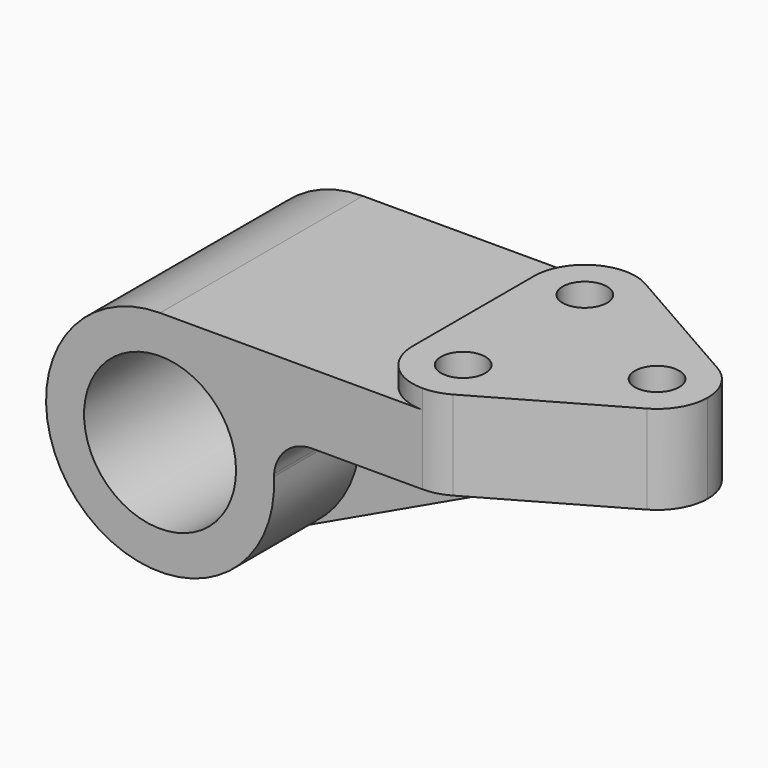
from build123d import *

# Parameters (mm, degrees)
F0_R     = 19.05
F1_DEPTH = 31.75
F2_DEPTH = 4.7625
F3_R     = 5.5626
F4_DEPTH = 4.7752
F5_DEPTH = 61.9262
F6_DEPTH = 61.9262


with BuildPart() as f1:
    # F0 (on Front) → F1 (new body, symmetric)
    with BuildSketch(Plane.XZ):
        with BuildLine():
            Line((70.111208, -4.7752), (-41.769909, -4.7752))
            ThreePointArc((-41.769909, -4.7752), (-69.341332, -40.856681), (-27.284214, -57.981385))
            ThreePointArc((-27.284214, -57.981385), (-16.552296, -46.789048), (-13.246168, -31.639394))
            Line((-13.246168, -31.639394), (-13.188227, -30.985492))
            ThreePointArc((-13.188227, -30.985492), (-10.131493, -24.800057), (-3.700401, -22.3012))
            Line((-3.700401, -22.3012), (47.719827, -22.3012))
            Line((47.719827, -22.3012), (70.111208, -22.3012))
            Line((70.111208, -22.3012), (70.111208, -4.7752))
        make_face()
        with Locations((-41.769909, -33.3502)):
            Circle(F0_R, mode=Mode.SUBTRACT)
    extrude(amount=F1_DEPTH, both=True)

    # F0 (on Front) → F2 (join, symmetric)
    with BuildSketch(Plane.XZ):
        with BuildLine():
            ThreePointArc((-13.246168, -31.639394), (-16.552296, -46.789048), (-27.284214, -57.981385))
            Line((-27.284214, -57.981385), (47.719827, -22.3012))
            Line((47.719827, -22.3012), (-3.700401, -22.3012))
            ThreePointArc((-3.700401, -22.3012), (-10.131493, -24.800057), (-13.188227, -30.985492))
            Line((-13.188227, -30.985492), (-13.246168, -31.639394))
        make_face()
    extrude(amount=F2_DEPTH, both=True)

    # F3 (on Top) → F4 (join)
    with BuildSketch(Plane.XY):
        with BuildLine():
            Line((11.361008, 19.05), (11.361008, -19.05))
            ThreePointArc((11.361008, -19.05), (15.080752, -28.030256), (24.061008, -31.75))
            ThreePointArc((24.061008, -31.75), (27.319684, -31.324813), (30.360163, -30.077721))
            Line((30.360163, -30.077721), (63.710363, -11.027721))
            ThreePointArc((63.710363, -11.027721), (68.395043, -6.375372), (70.111208, 0))
            ThreePointArc((70.111208, 0), (68.395043, 6.375372), (63.710363, 11.027721))
            Line((63.710363, 11.027721), (30.360163, 30.077721))
            ThreePointArc((30.360163, 30.077721), (27.319684, 31.324813), (24.061008, 31.75))
            ThreePointArc((24.061008, 31.75), (15.080752, 28.030256), (11.361008, 19.05))
        make_face()
        with Locations((24.061008, -19.05)):
            Circle(F3_R, mode=Mode.SUBTRACT)
        with Locations((24.061008, 19.05)):
            Circle(F3_R, mode=Mode.SUBTRACT)
        with Locations((57.411208, 0)):
            Circle(F3_R, mode=Mode.SUBTRACT)
    extrude(amount=-F4_DEPTH)

    # F3 (on Top) → F5 (cut, through all)
    with BuildSketch(Plane.XY):
        with Locations((24.061008, 19.05)):
            Circle(F3_R)
        with Locations((57.411208, 0)):
            Circle(F3_R)
        with Locations((24.061008, -19.05)):
            Circle(F3_R)
    extrude(amount=-F5_DEPTH, mode=Mode.SUBTRACT)

    # F3 (on Top) → F6 (cut, through all)
    with BuildSketch(Plane.XY):
        with BuildLine():
            ThreePointArc((30.360163, -30.077721), (27.319684, -31.324813), (24.061008, -31.75))
            Line((24.061008, -31.75), (70.111208, -31.75))
            Line((70.111208, -31.75), (70.111208, 0))
            ThreePointArc((70.111208, 0), (68.395043, -6.375372), (63.710363, -11.027721))
            Line((63.710363, -11.027721), (30.360163, -30.077721))
        make_face()
        with BuildLine():
            Line((70.111208, 31.75), (24.061008, 31.75))
            ThreePointArc((24.061008, 31.75), (27.319684, 31.324813), (30.360163, 30.077721))
            Line((30.360163, 30.077721), (63.710363, 11.027721))
            ThreePointArc((63.710363, 11.027721), (68.395043, 6.375372), (70.111208, 0))
            Line((70.111208, 0), (70.111208, 31.75))
        make_face()
    extrude(amount=-F6_DEPTH, mode=Mode.SUBTRACT)


solid = f1.part
